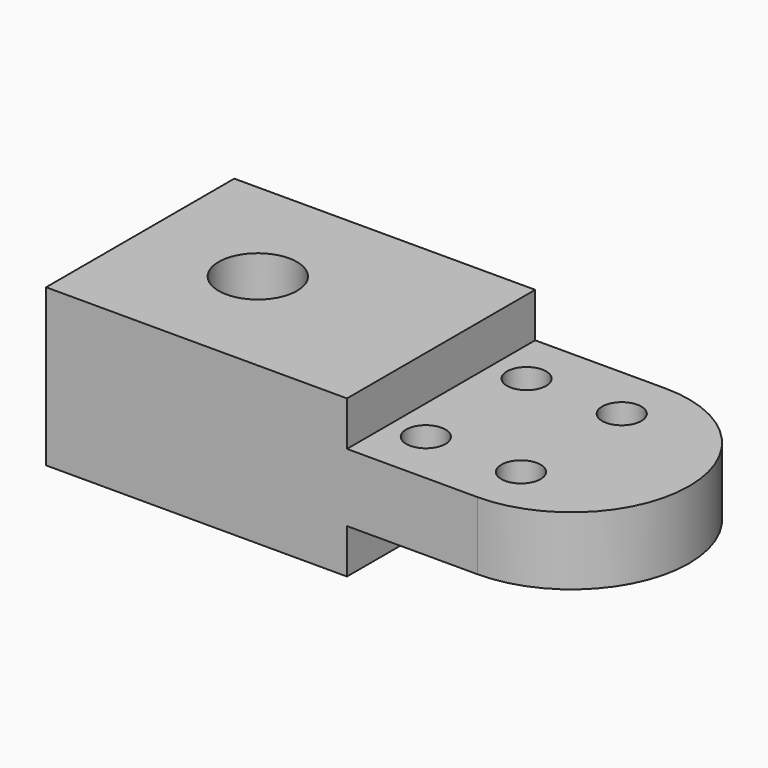
from build123d import *

# Parameters (mm, degrees)
F0_W     = 38.1
F0_H     = 38.1
F0_R     = 6.35
F0_R_2   = 3.175
F1_DEPTH = 25.4
F2_W     = 21.117794
F2_H     = 7.199542
F2_W_2   = 19.090971
F3_DEPTH = 38.101


with BuildPart() as f1:
    # F0 (on Top) → F1 (new body)
    with BuildSketch(Plane.XY):
        with Locations((19.05, 19.05)):
            Rectangle(F0_W, F0_H)
        with Locations((19.05, 19.05)):
            Circle(F0_R, mode=Mode.SUBTRACT)
        with BuildLine():
            Line((69.85, 38.1), (38.1, 38.1))
            Line((38.1, 38.1), (38.1, 0))
            Line((38.1, 0), (69.85, 0))
            ThreePointArc((69.85, 0), (88.9, 19.05), (69.85, 38.1))
        make_face()
        with Locations((54.437503, 8.829627)):
            Circle(F0_R_2, mode=Mode.SUBTRACT)
        with Locations((69.85, 8.829627)):
            Circle(F0_R_2, mode=Mode.SUBTRACT)
        with Locations((54.437503, 29.22605)):
            Circle(F0_R_2, mode=Mode.SUBTRACT)
        with Locations((69.85, 29.22605)):
            Circle(F0_R_2, mode=Mode.SUBTRACT)
    extrude(amount=F1_DEPTH)

    # F2 (on face) → F3 (cut, through all)
    with BuildSketch(Plane.XZ):
        with Locations((59.291103, 21.800229)):
            Rectangle(F2_W, F2_H)
        with Locations((79.395485, 21.800229)):
            Rectangle(F2_W_2, F2_H)
        with Locations((59.291103, 3.599771)):
            Rectangle(F2_W, F2_H)
        with Locations((79.395485, 3.599771)):
            Rectangle(F2_W_2, F2_H)
    extrude(amount=-F3_DEPTH, mode=Mode.SUBTRACT)


solid = f1.part
